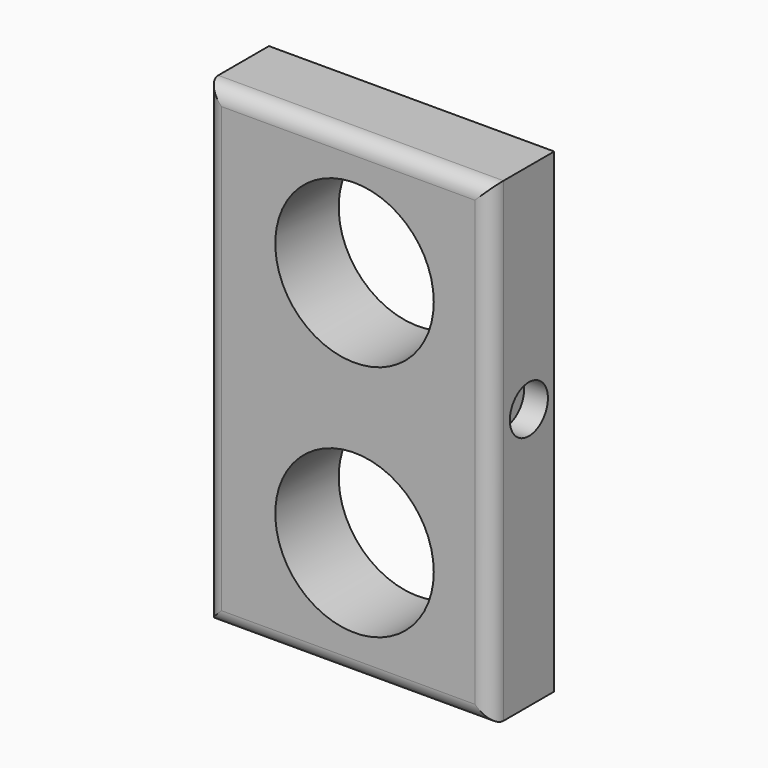
from build123d import *

# Parameters (mm, degrees)
F0_W     = 36
F0_H     = 60
F1_DEPTH = 10
F2_R     = 2
F3_R     = 10
F4_DEPTH = 25
F5_R     = 3
F6_DEPTH = 3
F7_R     = 3
F8_DEPTH = 3


with BuildPart() as f1:
    # F0 (on Front) → F1 (new body)
    with BuildSketch(Plane.XZ):
        with Locations((18, 30)):
            Rectangle(F0_W, F0_H)
    extrude(amount=F1_DEPTH)

    # F2
    f2_edges = [f1.edges().sort_by_distance(p)[0] for p in [
        (0, -10, 30),
        (18, -10, 0),
        (36, -10, 30),
        (18, -10, 60),
    ]]
    fillet(f2_edges, radius=F2_R)

    # F3 (on face) → F4 (cut)
    with BuildSketch(Plane.XZ.offset(10)):
        with Locations((18.8, 15)):
            Circle(F3_R)
        with Locations((18.8, 45)):
            Circle(F3_R)
    extrude(amount=-F4_DEPTH, mode=Mode.SUBTRACT)

    # F5 (on face) → F6 (cut)
    with BuildSketch(Plane.YZ.offset(36)):
        with Locations((-4, 33)):
            Circle(F5_R)
    extrude(amount=-F6_DEPTH, mode=Mode.SUBTRACT)

    # F7 (on face) → F8 (cut)
    with BuildSketch(Plane(origin=(0, 0, 0), x_dir=(0, -1, 0), z_dir=(-1, 0, 0))):
        with Locations((4, 33)):
            Circle(F7_R)
    extrude(amount=-F8_DEPTH, mode=Mode.SUBTRACT)


solid = f1.part
